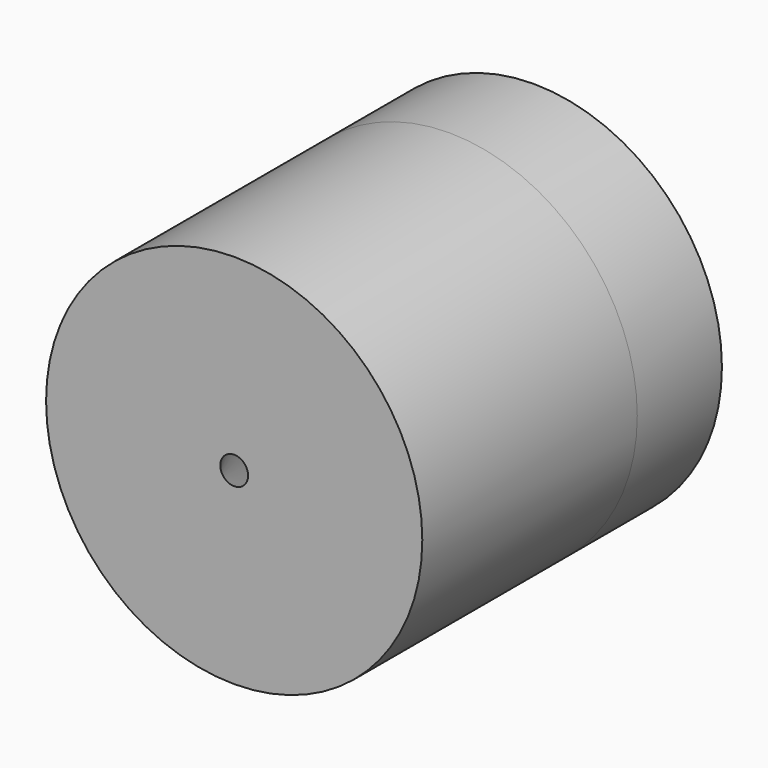
from build123d import *

# Parameters (mm, degrees)
F0_R     = 17.78
F1_DEPTH = 25.4
F4_R     = 17.78
F4_R_2   = 16.8
F5_DEPTH = 10


with BuildPart() as f1:
    # F0 (on Front) → F1 (new body)
    with BuildSketch(Plane.XZ):
        Circle(F0_R)
    extrude(amount=F1_DEPTH)

    # F2 (on Top) → F3 (revolve, cut)
    with BuildSketch(Plane.XY):
        Polygon((0, -25.4), (0, 0), (-16.8, 0), (-1.3125, -25.4), align=None)
    revolve(axis=Axis((0, -12.7, 0), (0, -1, 0)), mode=Mode.SUBTRACT)

    # F4 (on face) → F5 (join)
    with BuildSketch(Plane(origin=(0, 0, 0), x_dir=(-1, 0, 0), z_dir=(0, 1, 0))):
        Circle(F4_R)
        Circle(F4_R_2, mode=Mode.SUBTRACT)
    extrude(amount=F5_DEPTH)


solid = f1.part
